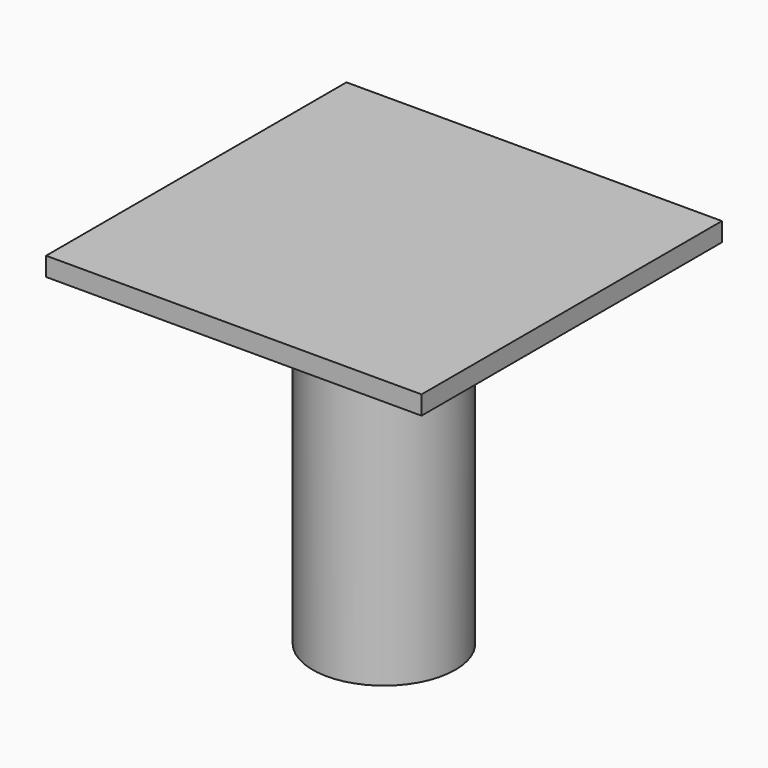
from build123d import *

# Parameters (mm, degrees)
F0_W     = 50
F0_H     = 50
F0_R     = 9.5
F1_DEPTH = 2.5
F2_DEPTH = 45


with BuildPart() as f1:
    # F0 (on Top) → F1 (new body)
    with BuildSketch(Plane.XY):
        with Locations((25, 31.013934)):
            Rectangle(F0_W, F0_H)
        with Locations((25, 31.013934)):
            Circle(F0_R, mode=Mode.SUBTRACT)
        with Locations((25, 31.013934)):
            Circle(F0_R)
    extrude(amount=F1_DEPTH)

    # F0 (on Top) → F2 (join)
    with BuildSketch(Plane.XY):
        with Locations((25, 31.013934)):
            Circle(F0_R)
    extrude(amount=-F2_DEPTH)


solid = f1.part
